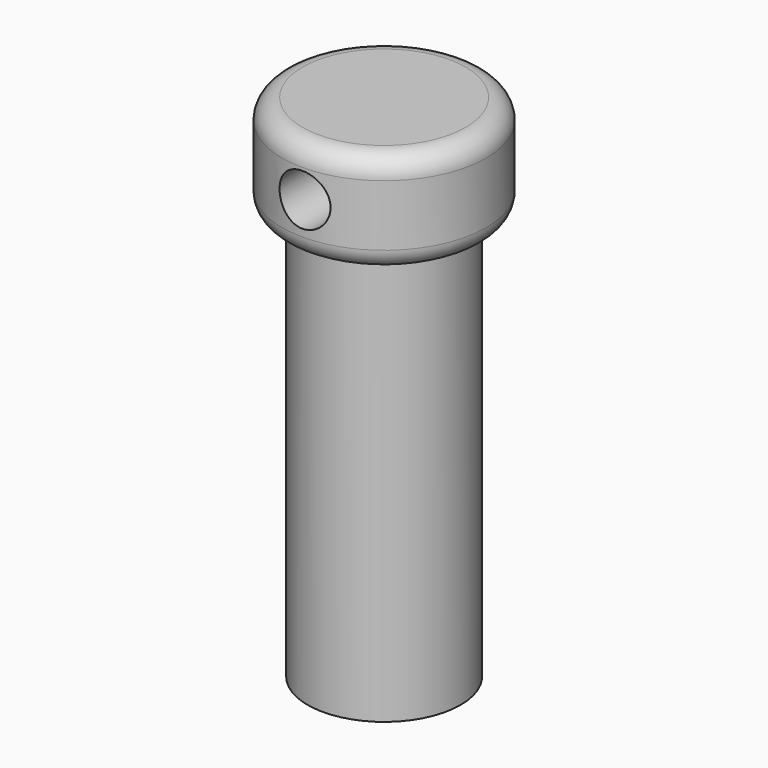
from build123d import *

# Parameters (mm, degrees)
F0_R     = 19.05
F1_DEPTH = 101.6
F3_D     = 6.35
F4_R     = 25.402508
F5_DEPTH = 25.4
F6_R     = 6.35
F7_DEPTH = 25.4
F8_R     = 6.35
F9_DEPTH = 127
F10_R    = 5.08


with BuildPart() as f1:
    # F0 (on Top) → F1 (new body)
    with BuildSketch(Plane.XY):
        Circle(F0_R)
    extrude(amount=F1_DEPTH)

    # F3 (through all)
    with Locations(Plane(origin=(0, 0, 0), x_dir=(1, 0, 0), z_dir=(0, 0, -1))):
        with Locations((0, 0)):
            Hole(F3_D / 2)

    # F4 (on face) → F5 (join)
    with BuildSketch(Plane.XY.offset(101.6)):
        Circle(F4_R)
    extrude(amount=F5_DEPTH)

    # F6 (on Front) → F7 (cut)
    with BuildSketch(Plane.XZ):
        with Locations((0, 114.860535)):
            Circle(F6_R)
    extrude(amount=F7_DEPTH, mode=Mode.SUBTRACT)

    # F8 (on face) → F9 (cut)
    with BuildSketch(Plane.XZ):
        with Locations((0, 114.860535)):
            Circle(F8_R)
    extrude(amount=F9_DEPTH, mode=Mode.SUBTRACT)

    # F10
    f10_edges = [f1.edges().sort_by_distance(p)[0] for p in [
        (-25.402508, 0, 101.6),
        (-25.402508, 0, 127),
    ]]
    fillet(f10_edges, radius=F10_R)


solid = f1.part
